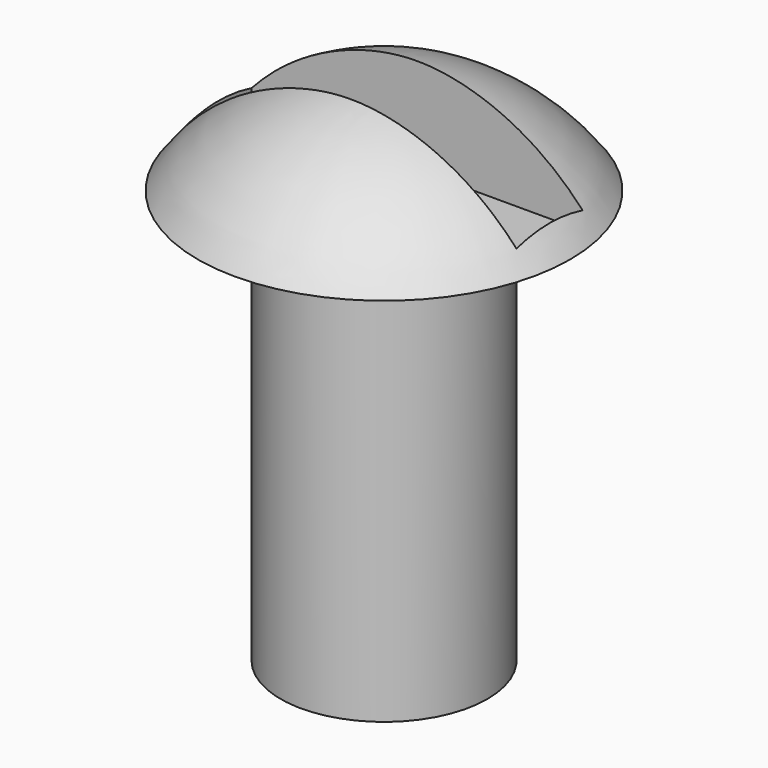
from build123d import *

# Parameters (mm, degrees)
F3_W     = 10.16
F3_H     = 2.54
F4_DEPTH = 3.1242


with BuildPart() as f1:
    # F0 (on Front) → F1 (revolve)
    with BuildSketch(Plane.XZ):
        with BuildLine():
            Line((0, 15.875), (0, 0))
            Line((0, 0), (3.175, 0))
            Line((3.175, 0), (3.175, 12.7))
            Line((3.175, 12.7), (5.715, 12.7))
            ThreePointArc((5.715, 12.7), (3.215304, 14.931548), (0, 15.875))
        make_face()
    revolve(axis=Axis((0, 0, 7.9375), (0, 0, 1)))

    # F3 (on offset) → F4 (cut)
    with BuildSketch(Plane.XY.offset(15.875)):
        Rectangle(F3_W, F3_H)
    extrude(amount=-F4_DEPTH, mode=Mode.SUBTRACT)


solid = f1.part
